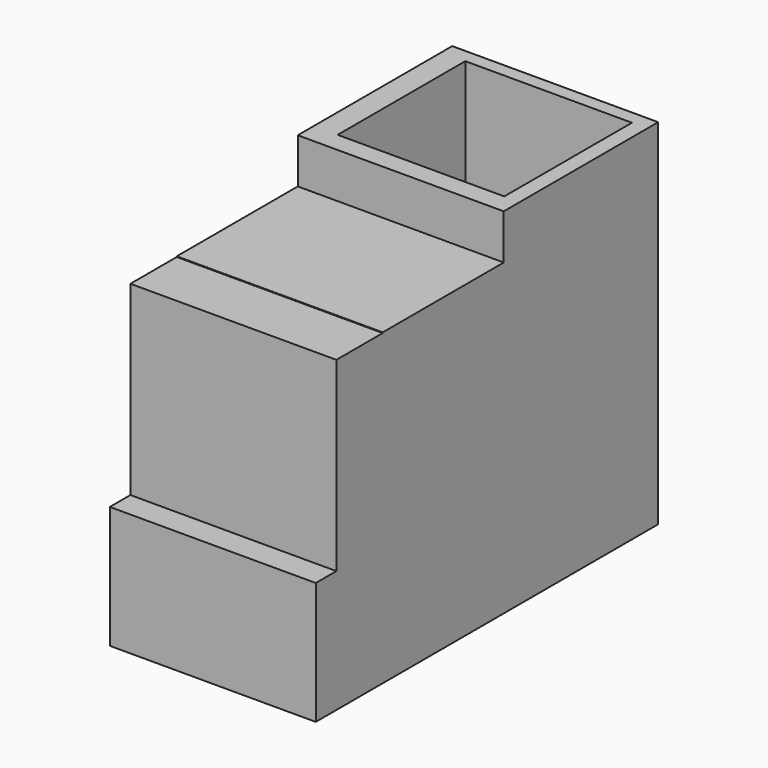
from build123d import *

# Parameters (mm, degrees)
F0_W          = 812.8
F0_H          = 101.6
F1_DEPTH      = 482.6
F2_W          = 812.8
F2_H          = 228.6
F3_DEPTH      = 734.06
F3_DEPTH_BACK = 482.6
F4_W          = 812.8
F4_H          = 596.9
F5_DEPTH      = 1219.2
F6_W          = 812.8
F6_H          = 1397
F7_DEPTH      = 762
F8_W          = 657.52998
F8_H          = 629.62246
F9_DEPTH      = 774.7


with BuildPart() as f1:
    # F0 (on Top) → F1 (new body)
    with BuildSketch(Plane.XY):
        with Locations((406.4, 50.8)):
            Rectangle(F0_W, F0_H)
    extrude(amount=F1_DEPTH)

    # F2 (on face) → F3 (join, two sides)
    with BuildSketch(Plane.XY.offset(482.6)) as f3_sk:
        with Locations((406.4, 215.9)):
            Rectangle(F2_W, F2_H)
    extrude(amount=F3_DEPTH)
    extrude(f3_sk.sketch, amount=-F3_DEPTH_BACK)

    # F4 (on Top) → F5 (join)
    with BuildSketch(Plane.XY):
        with Locations((406.4, 628.65)):
            Rectangle(F4_W, F4_H)
    extrude(amount=F5_DEPTH)

    # F6 (on face) → F7 (join)
    with BuildSketch(Plane(origin=(0, 927.1, 0), x_dir=(-1, 0, 0), z_dir=(0, 1, 0))):
        with Locations((-406.4, 698.5)):
            Rectangle(F6_W, F6_H)
    extrude(amount=F7_DEPTH)

    # F8 (on face) → F9 (cut)
    with BuildSketch(Plane.XY.offset(1397)):
        with Locations((423.118338, 1320.792675)):
            Rectangle(F8_W, F8_H)
    extrude(amount=-F9_DEPTH, mode=Mode.SUBTRACT)


solid = f1.part
